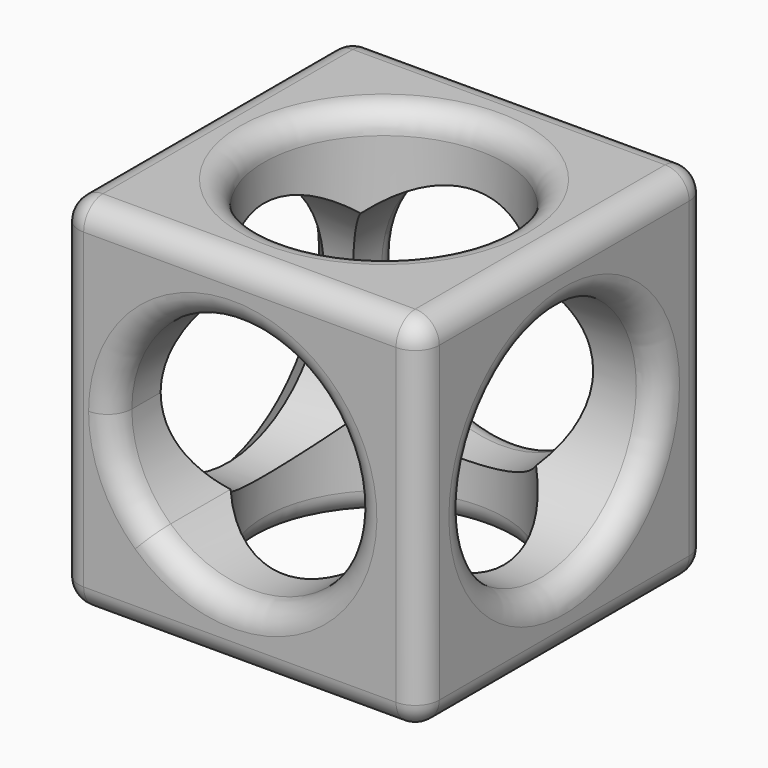
from build123d import *

# Parameters (mm, degrees)
F0_W     = 76.2
F0_H     = 76.2
F1_DEPTH = 76.2
F2_R     = 25.4
F3_DEPTH = 76.201
F5_DEPTH = 76.201
F6_R     = 25.4
F7_DEPTH = 76.201
F8_R     = 5.08
F9_SIZE  = 5.08


with BuildPart() as f1:
    # F0 (on Front) → F1 (new body)
    with BuildSketch(Plane.XZ):
        with Locations((1.5039462596, 12.716261409)):
            Rectangle(F0_W, F0_H)
    extrude(amount=F1_DEPTH)

    # F2 (on face) → F3 (cut, through all)
    with BuildSketch(Plane(origin=(0, 0, -25.383738591), x_dir=(1, 0, 0), z_dir=(0, 0, -1))):
        with Locations((1.5039462596, 38.1)):
            Circle(F2_R)
    extrude(amount=-F3_DEPTH, mode=Mode.SUBTRACT)

    # F4 (on face) → F5 (cut, through all)
    with BuildSketch(Plane(origin=(0, 0, 0), x_dir=(-1, 0, 0), z_dir=(0, 1, 0))):
        with BuildLine():
            ThreePointArc((25.4, 12.716261409), (9.2266703114, 36.3811838674), (-18.6967366114, 29.9090517608))
            Line((-18.6967366115, 29.9090517608), (17.1927903518, -5.9804752025))
            ThreePointArc((17.1927903518, -5.9804752025), (23.2578682916, 2.5068754073), (25.4, 12.716261409))
        make_face()
        with BuildLine():
            Line((17.1927903518, -5.9804752025), (-18.6967366115, 29.9090517608))
            ThreePointArc((-18.6967366114, 29.9090517608), (-17.9605122421, -5.2442508332), (17.1927903518, -5.9804752025))
        make_face()
    extrude(amount=-F5_DEPTH, mode=Mode.SUBTRACT)

    # F6 (on face) → F7 (cut, through all)
    with BuildSketch(Plane.YZ.offset(39.6039462596)):
        with Locations((-38.1, 12.716261409)):
            Circle(F6_R)
    extrude(amount=-F7_DEPTH, mode=Mode.SUBTRACT)

    # F8
    f8_edges = [f1.edges().sort_by_distance(p)[0] for p in [
        (39.603946, -38.1, 50.816261),
        (39.603946, -76.2, 12.716261),
        (39.603946, -38.1, -25.383739),
        (39.603946, 0, 12.716261),
        (39.603946, -63.5, 12.716261),
        (25.4, 0, 12.716261),
        (-36.596054, 0, 12.716261),
        (1.503946, 0, 50.816261),
        (1.503946, 0, -25.383739),
        (-23.896054, -38.1, -25.383739),
        (1.503946, -76.2, -25.383739),
        (-36.596054, -38.1, -25.383739),
        (-36.596054, -38.1, 50.816261),
        (1.503946, -76.2, 50.816261),
        (-23.896054, -38.1, 50.816261),
        (25.4, -76.2, 12.716261),
        (-36.596054, -76.2, 12.716261),
    ]]
    fillet(f8_edges, radius=F8_R)

    # F9
    f9_edges = [f1.edges().sort_by_distance(p)[0] for p in [
        (-36.596054, -63.5, 12.716261),
    ]]
    chamfer(f9_edges, length=F9_SIZE)


solid = f1.part
